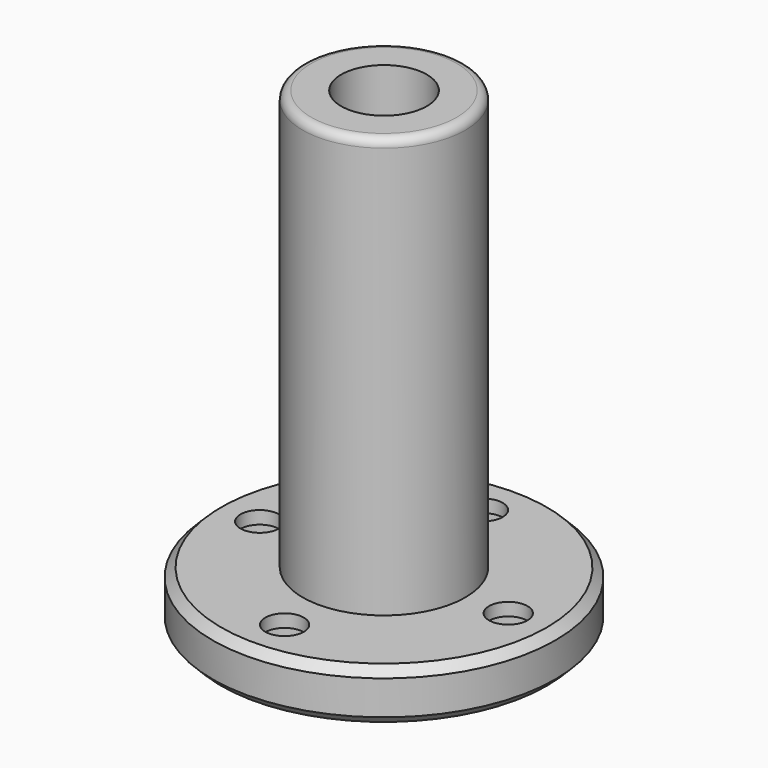
from build123d import *

# Parameters (mm, degrees)
F0_R     = 20
F0_R_2   = 2.25
F0_R_3   = 5
F1_DEPTH = 6
F2_R     = 9.5
F2_R_2   = 5
F3_DEPTH = 49
F4_R     = 4
F5_DEPTH = 4.5
F6_SIZE  = 1
F7_R     = 1


with BuildPart() as f1:
    # F0 (on Top) → F1 (new body)
    with BuildSketch(Plane.XY):
        Circle(F0_R)
        with Locations((0, -14.5)):
            Circle(F0_R_2, mode=Mode.SUBTRACT)
        with Locations((-14.5, 0)):
            Circle(F0_R_2, mode=Mode.SUBTRACT)
        Circle(F0_R_3, mode=Mode.SUBTRACT)
        with Locations((14.5, 0)):
            Circle(F0_R_2, mode=Mode.SUBTRACT)
        with Locations((0, 14.5)):
            Circle(F0_R_2, mode=Mode.SUBTRACT)
    extrude(amount=F1_DEPTH)

    # F2 (on face) → F3 (join)
    with BuildSketch(Plane.XY.offset(6)):
        Circle(F2_R)
        Circle(F2_R_2, mode=Mode.SUBTRACT)
    extrude(amount=F3_DEPTH)

    # F4 (on face) → F5 (cut)
    with BuildSketch(Plane(origin=(0, 0, 0), x_dir=(1, 0, 0), z_dir=(0, 0, -1))):
        with Locations((0, 14.5)):
            Circle(F4_R)
        with Locations((14.5, 0)):
            Circle(F4_R)
        with Locations((0, -14.5)):
            Circle(F4_R)
        with Locations((-14.5, 0)):
            Circle(F4_R)
    extrude(amount=-F5_DEPTH, mode=Mode.SUBTRACT)

    # F6
    f6_edges = [f1.edges().sort_by_distance(p)[0] for p in [
        (-20, 0, 0),
        (-20, 0, 6),
    ]]
    chamfer(f6_edges, length=F6_SIZE)

    # F7
    f7_edges = [f1.edges().sort_by_distance(p)[0] for p in [
        (-9.5, 0, 55),
    ]]
    fillet(f7_edges, radius=F7_R)


solid = f1.part
